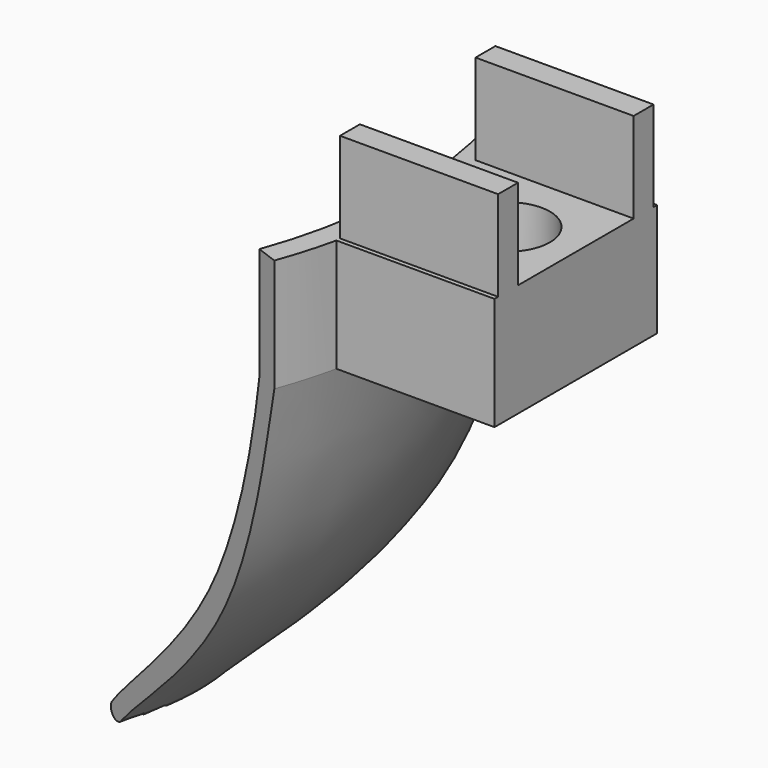
from build123d import *

# Parameters (mm, degrees)
F0_W          = 7
F0_H          = 9
F0_R          = 1.85
F1_DEPTH      = 5
F5_ANGLE_BACK = 20
F5_ANGLE      = 40
F6_W          = 1.6
F6_H          = 1.8669135356
F6_H_2        = 10
F7_DEPTH      = 5
F8_W          = 7
F8_H          = 1.5
F9_DEPTH      = 4
F10_W         = 0.2
F10_H         = 4
F11_DEPTH     = 25


with BuildPart() as f1:
    # F0 (on Top) → F1 (new body)
    with BuildSketch(Plane.XY):
        with Locations((3.5, -4.5)):
            Rectangle(F0_W, F0_H)
        with Locations((4, -4.5)):
            Circle(F0_R, mode=Mode.SUBTRACT)
    extrude(amount=F1_DEPTH)

    # F3 (on offset) → F5 (revolve)
    with BuildSketch(Plane.XZ.offset(4.5), mode=Mode.PRIVATE) as f5_sk:
        with BuildLine():
            Line((0.5, 5), (0, 5))
            Line((0, 5), (-0.5, 5))
            Line((-0.5, 5), (-0.5, 0))
            add(Edge.make_bspline(
                [(-0.5, 0), (-0.7940392474, -1.8718490053), (-2.3993364256, -10.2948176613), (-9.1089938236, -15.538515672), (-10.3149545762, -17)],
                knots=[0, 0, 0, 0, 0.5, 1, 1, 1, 1], degree=3))
            ThreePointArc((-10.3149545762, -17), (-10.1685444147, -17.5464101615), (-9.6221342532, -17.4))
            add(Edge.make_bspline(
                [(-9.6221342532, -17.4), (-8.3348966668, -15.9883498775), (-1.3566520207, -10.8349816991), (0.0036717937, -2.0199950425), (0.5, 0)],
                knots=[0, 0, 0, 0, 0.4942337757, 1, 1, 1, 1], degree=3))
            Line((0.5, 0), (0.5, 5))
        make_face()
    revolve(f5_sk.sketch.rotate(Axis((-20, -4.5, 1.4354154991), (0, 0, -1)), -F5_ANGLE_BACK), axis=Axis((-20, -4.5, 1.4354154991), (0, 0, -1)), revolution_arc=F5_ANGLE)

    # F6 (on face) → F7 (cut)
    with BuildSketch(Plane.XY.offset(5)):
        with Locations((0.8, -9.9334567678)):
            Rectangle(F6_W, F6_H)
        with Locations((0.8, 5)):
            Rectangle(F6_W, F6_H_2)
    extrude(amount=-F7_DEPTH, mode=Mode.SUBTRACT)

    # F8 (on face) → F9 (join)
    with BuildSketch(Plane.XY.offset(5)):
        with Locations((3.5, -0.75)):
            Rectangle(F8_W, F8_H)
        with Locations((3.5, -8.25)):
            Rectangle(F8_W, F8_H)
    extrude(amount=F9_DEPTH)

    # F10 (on face) → F11 (cut)
    with BuildSketch(Plane.YZ.offset(7)):
        with Locations((-7.6, 7)):
            Rectangle(F10_W, F10_H)
        with Locations((-8.9, 7)):
            Rectangle(F10_W, F10_H)
        with Locations((-0.1, 7)):
            Rectangle(F10_W, F10_H)
        with Locations((-1.4, 7)):
            Rectangle(F10_W, F10_H)
    extrude(amount=-F11_DEPTH, mode=Mode.SUBTRACT)


solid = f1.part
